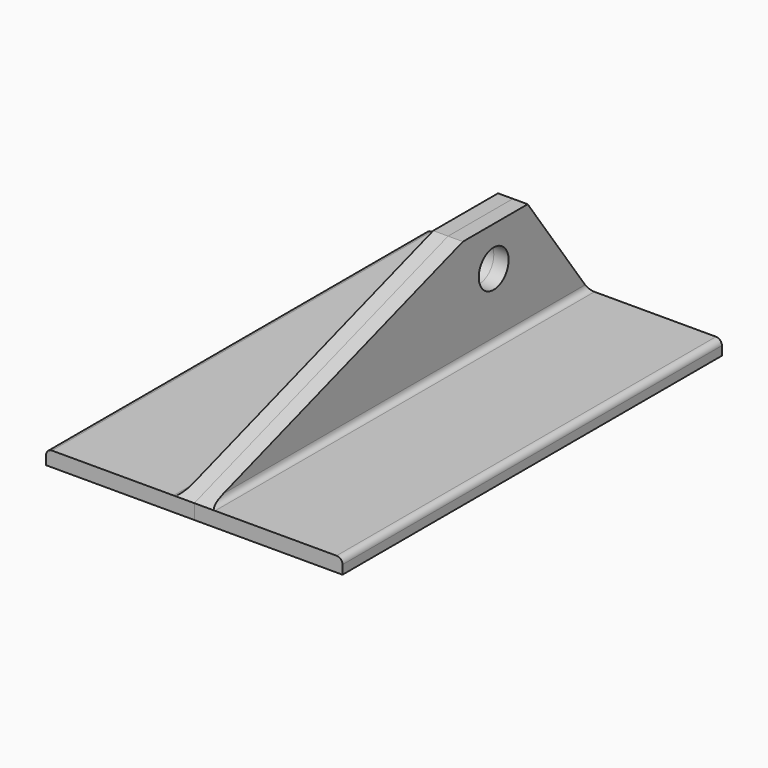
from build123d import *

# Parameters (mm, degrees)
F1_DEPTH = 101.6
F2_R     = 4
F3_DEPTH = 31.751


with BuildPart() as f1:
    # F0 (on Front) → F1 (new body)
    with BuildSketch(Plane.XZ):
        with BuildLine():
            Line((0, 31.75), (0, 0))
            Line((0, 0), (31.75, 0))
            Line((31.75, 0), (31.75, 1.905))
            ThreePointArc((31.75, 1.905), (31.378026, 2.803026), (30.48, 3.175))
            Line((30.48, 3.175), (4.445, 3.175))
            ThreePointArc((4.445, 3.175), (3.546974, 3.546974), (3.175, 4.445))
            Line((3.175, 4.445), (3.175, 30.48))
            ThreePointArc((3.175, 30.48), (2.803026, 31.378026), (1.905, 31.75))
            Line((1.905, 31.75), (0, 31.75))
        make_face()
    extrude(amount=F1_DEPTH)

    # F2 (on Right) → F3 (cut, through all)
    with BuildSketch(Plane.YZ):
        with Locations((-25.4, 17.4625)):
            Circle(F2_R)
        Polygon((-101.6, 3.175), (-33.650886, 25.901856), (-16.294748, 25.901856), (0, 3.175), (0, 31.75), (-101.6, 31.75), align=None)
    extrude(amount=F3_DEPTH, mode=Mode.SUBTRACT)


with BuildPart() as f4_1:
    # F4: instance of F1
    add(f1.part.mirror(Plane.YZ))


solid = Compound([f1.part, f4_1.part])
